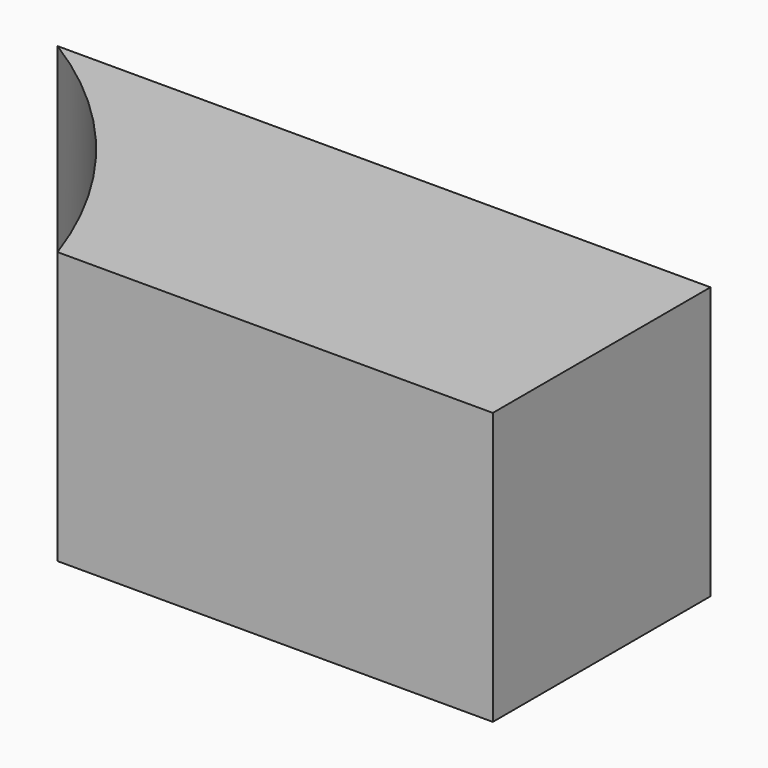
from build123d import *

# Parameters (mm, degrees)
F0_W     = 152.4
F0_H     = 63.5
F1_DEPTH = 63.5
F3_DEPTH = 63.501


with BuildPart() as f1:
    # F0 (on Front) → F1 (new body)
    with BuildSketch(Plane.XZ):
        with Locations((76.2, 31.75)):
            Rectangle(F0_W, F0_H)
    extrude(amount=F1_DEPTH)

    # F2 (on face) → F3 (cut, through all)
    with BuildSketch(Plane(origin=(0, 0, 0), x_dir=(1, 0, 0), z_dir=(0, 0, -1))):
        with BuildLine():
            Line((0, 63.5), (0, 0))
            ThreePointArc((0, 0), (30.894818, 27.354145), (50.8, 63.5))
            Line((50.8, 63.5), (0, 63.5))
        make_face()
    extrude(amount=-F3_DEPTH, mode=Mode.SUBTRACT)


solid = f1.part
